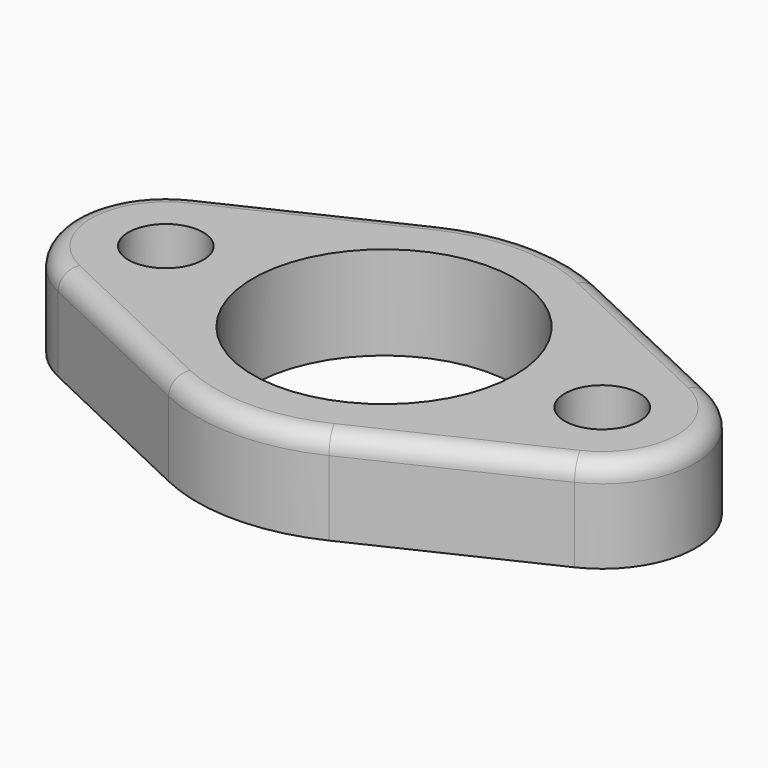
from build123d import *

# Parameters (mm, degrees)
F0_R     = 21
F0_R_2   = 6
F1_DEPTH = 15
F2_R     = 3


with BuildPart() as f1:
    # F0 (on Top) → F1 (new body)
    with BuildSketch(Plane.XY):
        with BuildLine():
            Line((12.857143, -27.105237), (41.428571, -13.552619))
            ThreePointArc((41.428571, -13.552619), (50, 0), (41.428571, 13.552619))
            Line((41.428571, 13.552619), (12.857143, 27.105237))
            ThreePointArc((12.857143, 27.105237), (0, 30), (-12.857143, 27.105237))
            Line((-12.857143, 27.105237), (-41.428571, 13.552619))
            ThreePointArc((-41.428571, 13.552619), (-50, 0), (-41.428571, -13.552619))
            Line((-41.428571, -13.552619), (-12.857143, -27.105237))
            ThreePointArc((-12.857143, -27.105237), (0, -30), (12.857143, -27.105237))
        make_face()
        Circle(F0_R, mode=Mode.SUBTRACT)
        with Locations((-35, 0)):
            Circle(F0_R_2, mode=Mode.SUBTRACT)
        with Locations((35, 0)):
            Circle(F0_R_2, mode=Mode.SUBTRACT)
    extrude(amount=F1_DEPTH)

    # F2
    f2_edges = [f1.edges().sort_by_distance(p)[0] for p in [
        (-27.142857, -20.328928, 15),
        (-50, 0, 15),
        (-27.142857, 20.328928, 15),
        (0, 30, 15),
        (27.142857, 20.328928, 15),
        (50, 0, 15),
        (27.142857, -20.328928, 15),
        (0, -30, 15),
    ]]
    fillet(f2_edges, radius=F2_R)


solid = f1.part
